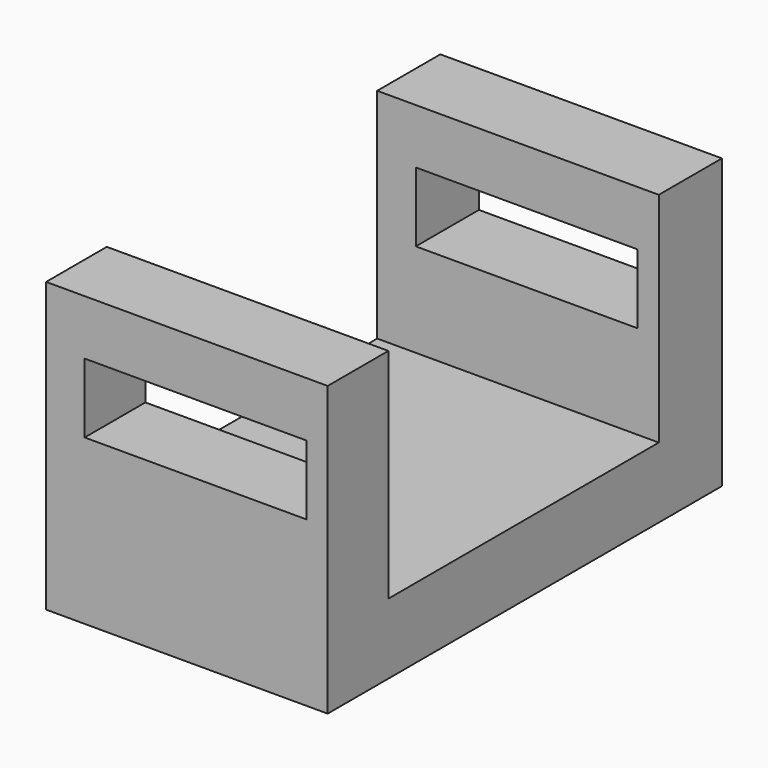
from build123d import *

# Parameters (mm, degrees)
F0_W     = 13.687639
F0_H     = 39.348725
F0_H_2   = 12.7
F0_W_2   = 60.975785
F0_W_3   = 14.236576
F1_DEPTH = 50.8
F3_DEPTH = 88.901


with BuildPart() as f1:
    # F0 (on Right) → F1 (new body)
    with BuildSketch(Plane.YZ):
        with Locations((-35.16204, 26.024362)):
            Rectangle(F0_W, F0_H)
        with Locations((-35.16204, 0)):
            Rectangle(F0_W, F0_H_2)
        with Locations((2.169672, 0)):
            Rectangle(F0_W_2, F0_H_2)
        with Locations((39.775852, 0)):
            Rectangle(F0_W_3, F0_H_2)
        with Locations((39.775852, 26.024362)):
            Rectangle(F0_W_3, F0_H)
    extrude(amount=F1_DEPTH)

    # F2 (on face) → F3 (cut, through all)
    with BuildSketch(Plane(origin=(0, 46.89414, 0), x_dir=(-1, 0, 0), z_dir=(0, 1, 0))):
        Polygon((-46.968959, 23.255918), (-36.365226, 23.255918), (-6.963961, 23.255918), (-6.963961, 35.787608), (-36.365226, 35.787608), (-46.968959, 35.787608), align=None)
    extrude(amount=-F3_DEPTH, mode=Mode.SUBTRACT)


solid = f1.part
